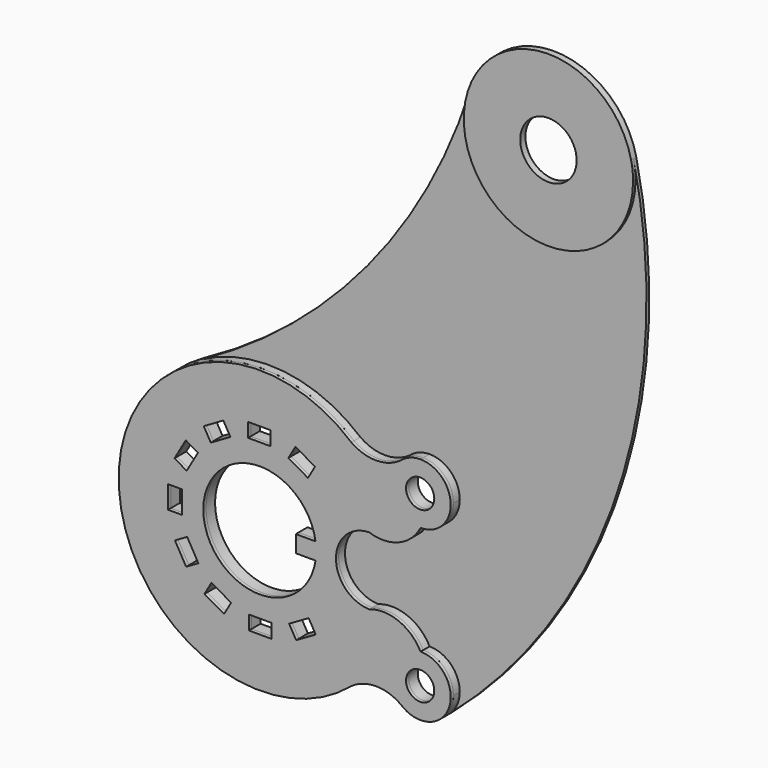
from build123d import *

# Parameters (mm, degrees)
F0_R        = 10
F1_DEPTH    = 2.3
F0_W        = 5
F0_H        = 8
F0_W_2      = 8
F0_H_2      = 5
F0_R_2      = 5
F2_DEPTH    = 4
F2_FACE_W   = 5
F2_FACE_H   = 8
F2_FACE_W_2 = 8
F2_FACE_H_2 = 5
F2_FACE_R   = 5
F3_DEPTH    = 1.2


with BuildPart() as f1:
    # F0 (on Front) → F1 (new body)
    with BuildSketch(Plane.XZ):
        with BuildLine():
            ThreePointArc((72.313799, 126.379749), (44.408401, 149.966922), (14.413772, 129.100964))
            ThreePointArc((14.413772, 129.100964), (38.39494, 90.35555), (73, 120))
            ThreePointArc((73, 120), (72.827956, 123.208273), (72.313799, 126.379749))
        make_face()
        with Locations((43, 120)):
            Circle(F0_R, mode=Mode.SUBTRACT)
    extrude(amount=F1_DEPTH)


with BuildPart() as f2:
    # F0 (on Front) → F2 (new body)
    with BuildSketch(Plane.XZ):
        with BuildLine():
            ThreePointArc((-7.062871, 8.028208), (-15.799866, 5.22103), (-24.53686, 8.028208))
            ThreePointArc((-24.53686, 8.028208), (-51.765082, 19.725201), (-80.832217, 13.954811))
            ThreePointArc((-80.832217, 13.954811), (-98.218043, -58.303232), (-24.53686, -68.028208))
            ThreePointArc((-24.53686, -68.028208), (-15.799866, -65.22103), (-7.062871, -68.028208))
            ThreePointArc((-7.062871, -68.028208), (-3.774396, -70.004509), (0, -70.692813))
            ThreePointArc((0, -70.692813), (4.091963, -69.878871), (7.560961, -67.560961))
            ThreePointArc((7.560961, -67.560961), (9.878871, -64.091963), (10.692813, -60))
            ThreePointArc((10.692813, -60), (7.560961, -52.439039), (0, -49.307187))
            ThreePointArc((0, -49.307187), (-7.738559, -42.268904), (-18.195634, -42))
            ThreePointArc((-18.195634, -42), (-29.989238, -30), (-18.195634, -18))
            ThreePointArc((-18.195634, -18), (-7.738559, -17.731096), (0, -10.692813))
            ThreePointArc((0, -10.692813), (7.560961, -7.560961), (10.692813, 0))
            ThreePointArc((10.692813, 0), (7.560961, 7.560961), (0, 10.692813))
            ThreePointArc((0, 10.692813), (-3.774396, 10.004509), (-7.062871, 8.028208))
        make_face()
        Polygon((-67.159128, -55.888889), (-69.659128, -60.219016), (-76.587331, -56.219016), (-74.087331, -51.888889), align=None, mode=Mode.SUBTRACT)
        with Locations((-87, -30.146382)):
            Rectangle(F0_W, F0_H, mode=Mode.SUBTRACT)
        Polygon((-78.742508, -47.340872), (-83.072635, -49.840872), (-87.072635, -42.912669), (-82.742508, -40.412669), align=None, mode=Mode.SUBTRACT)
        with Locations((-56.853618, -60)):
            Rectangle(F0_W_2, F0_H_2, mode=Mode.SUBTRACT)
        Polygon((-39.659128, -51.742508), (-37.159128, -56.072635), (-44.087331, -60.072635), (-46.587331, -55.742508), align=None, mode=Mode.SUBTRACT)
        with BuildLine():
            ThreePointArc((-37.22628, -33), (-77, -30), (-37.22628, -27))
            Line((-37.22628, -27), (-44.22628, -27))
            Line((-44.22628, -27), (-44.22628, -33))
            Line((-44.22628, -33), (-37.22628, -33))
        make_face(mode=Mode.SUBTRACT)
        Polygon((-82.888889, -19.840872), (-87.219016, -17.340872), (-83.219016, -10.412669), (-78.888889, -12.912669), align=None, mode=Mode.SUBTRACT)
        Polygon((-74.340872, -8.257492), (-76.840872, -3.927365), (-69.912669, 0.072635), (-67.412669, -4.257492), align=None, mode=Mode.SUBTRACT)
        with Locations((-57.146382, 0)):
            Rectangle(F0_W_2, F0_H_2, mode=Mode.SUBTRACT)
        Polygon((-46.840872, -4.111111), (-44.340872, 0.219016), (-37.412669, -3.780984), (-39.912669, -8.111111), align=None, mode=Mode.SUBTRACT)
        with Locations((-0.146382, -60)):
            Circle(F0_R_2, mode=Mode.SUBTRACT)
        with Locations((-0.146382, 0)):
            Circle(F0_R_2, mode=Mode.SUBTRACT)
    extrude(amount=F2_DEPTH)


with BuildPart() as f3:
    # F0 (on Front) + F2_face (on face) → F3 (new body)
    with BuildSketch(Plane.XZ):
        with BuildLine():
            ThreePointArc((-80.832217, 13.954811), (-51.765082, 19.725201), (-24.53686, 8.028208))
            ThreePointArc((-24.53686, 8.028208), (-15.799866, 5.22103), (-7.062871, 8.028208))
            ThreePointArc((-7.062871, 8.028208), (-3.774396, 10.004509), (0, 10.692813))
            ThreePointArc((0, 10.692813), (7.560961, 7.560961), (10.692813, 0))
            ThreePointArc((10.692813, 0), (7.560961, -7.560961), (0, -10.692813))
            ThreePointArc((0, -10.692813), (-7.738559, -17.731096), (-18.195634, -18))
            ThreePointArc((-18.195634, -18), (-29.989238, -30), (-18.195634, -42))
            ThreePointArc((-18.195634, -42), (-7.738559, -42.268904), (0, -49.307187))
            ThreePointArc((0, -49.307187), (7.560961, -52.439039), (10.692813, -60))
            ThreePointArc((10.692813, -60), (9.878871, -64.091963), (7.560961, -67.560961))
            ThreePointArc((7.560961, -67.560961), (66.594023, 20.509286), (72.313799, 126.379749))
            ThreePointArc((72.313799, 126.379749), (72.827956, 123.208273), (73, 120))
            ThreePointArc((73, 120), (38.39494, 90.35555), (14.413772, 129.100964))
            ThreePointArc((14.413772, 129.100964), (-22.051079, 62.298153), (-80.832217, 13.954811))
        make_face()
    with BuildSketch(Plane(origin=(-52.186771, -4, -29.997608), x_dir=(1, 0, 0), z_dir=(0, -1, 0))):
        with BuildLine():
            ThreePointArc((33.991136, -12.002392), (22.197533, -0.002392), (33.991136, 11.997608))
            ThreePointArc((33.991136, 11.997608), (44.448211, 12.266512), (52.186771, 19.304795))
            ThreePointArc((52.186771, 19.304795), (62.879584, 29.997608), (52.186771, 40.690422))
            ThreePointArc((52.186771, 40.690422), (48.412374, 40.002117), (45.1239, 38.025816))
            ThreePointArc((45.1239, 38.025816), (36.386905, 35.218638), (27.64991, 38.025816))
            ThreePointArc((27.64991, 38.025816), (-54.813229, -0.002392), (27.64991, -38.030599))
            ThreePointArc((27.64991, -38.030599), (36.386905, -35.223422), (45.1239, -38.030599))
            ThreePointArc((45.1239, -38.030599), (62.191279, -33.776788), (52.186771, -19.309578))
            ThreePointArc((52.186771, -19.309578), (44.448211, -12.271296), (33.991136, -12.002392))
        make_face()
        Polygon((-24.400561, -26.221408), (-21.900561, -21.891281), (-14.972358, -25.891281), (-17.472358, -30.221408), align=None, mode=Mode.SUBTRACT)
        with Locations((-34.813229, -0.148773)):
            Rectangle(F2_FACE_W, F2_FACE_H, mode=Mode.SUBTRACT)
        Polygon((-26.555737, -17.343263), (-30.885864, -19.843263), (-34.885864, -12.91506), (-30.555737, -10.41506), align=None, mode=Mode.SUBTRACT)
        with Locations((-4.666848, -30.002392)):
            Rectangle(F2_FACE_W_2, F2_FACE_H_2, mode=Mode.SUBTRACT)
        Polygon((8.099439, -30.075026), (5.599439, -25.744899), (12.527642, -21.744899), (15.027642, -26.075026), align=None, mode=Mode.SUBTRACT)
        with BuildLine():
            ThreePointArc((14.96049, -3.002392), (-24.813229, -0.002392), (14.96049, 2.997608))
            Line((14.96049, 2.997608), (7.96049, 2.997608))
            Line((7.96049, 2.997608), (7.960491, -3.002392))
            Line((7.960491, -3.002392), (14.96049, -3.002392))
        make_face(mode=Mode.SUBTRACT)
        Polygon((-35.032246, 12.656737), (-31.032246, 19.58494), (-26.702119, 17.08494), (-30.702119, 10.156737), align=None, mode=Mode.SUBTRACT)
        Polygon((-17.725898, 30.070243), (-15.225898, 25.740116), (-22.154101, 21.740116), (-24.654101, 26.070243), align=None, mode=Mode.SUBTRACT)
        with Locations((-4.959611, 29.997608)):
            Rectangle(F2_FACE_W_2, F2_FACE_H_2, mode=Mode.SUBTRACT)
        Polygon((12.274102, 21.886498), (5.345899, 25.886498), (7.845899, 30.216625), (14.774102, 26.216625), align=None, mode=Mode.SUBTRACT)
        with Locations((52.040389, -30.002392)):
            Circle(F2_FACE_R, mode=Mode.SUBTRACT)
        with Locations((52.040389, 29.997608)):
            Circle(F2_FACE_R, mode=Mode.SUBTRACT)
    extrude(amount=F3_DEPTH)


solid = Compound([f1.part, f2.part, f3.part])
